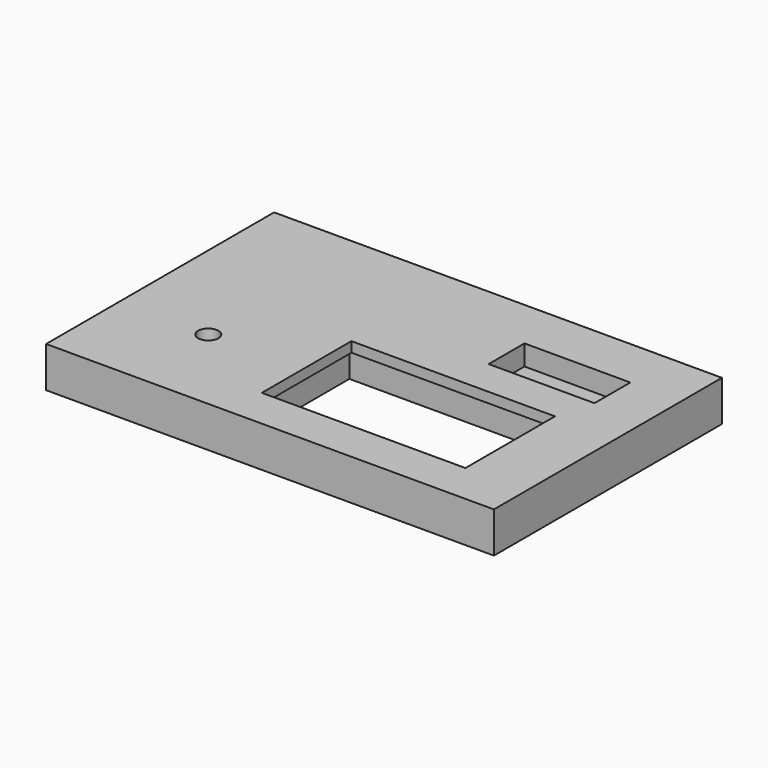
from build123d import *

# Parameters (mm, degrees)
F0_W           = 139.7
F0_H           = 88.9
F0_W_2         = 63.5
F0_H_2         = 34.925
F1_DEPTH       = 12.7
F2_W           = 9.525
F2_H           = 9.525
F2_W_2         = 69.85
F2_H_2         = 41.275
F3_DEPTH       = 9.525
F4_W           = 33.02
F4_H           = 13.97
F5_DEPTH       = 6.35
F7_D           = 6.35
F7_CBORE_D     = 12.7
F7_CBORE_DEPTH = 6.35


with BuildPart() as f1:
    # F0 (on Top) → F1 (new body)
    with BuildSketch(Plane.XY):
        with Locations((-69.85, -44.45)):
            Rectangle(F0_W, F0_H)
        with Locations((-50.8, -58.7375)):
            Rectangle(F0_W_2, F0_H_2, mode=Mode.SUBTRACT)
    extrude(amount=F1_DEPTH)

    # F2 (on face) → F3 (cut)
    with BuildSketch(Plane(origin=(0, 0, 0), x_dir=(1, 0, 0), z_dir=(0, 0, -1))):
        with Locations((-131.7625, 7.9375)):
            Rectangle(F2_W, F2_H)
        with Locations((-131.7625, 80.9625)):
            Rectangle(F2_W, F2_H)
        with Locations((-7.9375, 7.9375)):
            Rectangle(F2_W, F2_H)
        with Locations((-7.9375, 80.9625)):
            Rectangle(F2_W, F2_H)
        with Locations((-50.8, 58.7375)):
            Rectangle(F2_W_2, F2_H_2)
    extrude(amount=-F3_DEPTH, mode=Mode.SUBTRACT)

    # F4 (on face) → F5 (cut)
    with BuildSketch(Plane.XY.offset(12.7)):
        with Locations((-32.385, -22.86)):
            Rectangle(F4_W, F4_H)
    extrude(amount=-F5_DEPTH, mode=Mode.SUBTRACT)

    # F7 (through all)
    with Locations(Plane(origin=(0, 0, 0), x_dir=(1, 0, 0), z_dir=(0, 0, -1))):
        with Locations((-111.960039, 60.325)):
            CounterBoreHole(F7_D / 2, F7_CBORE_D / 2, F7_CBORE_DEPTH)


solid = f1.part
